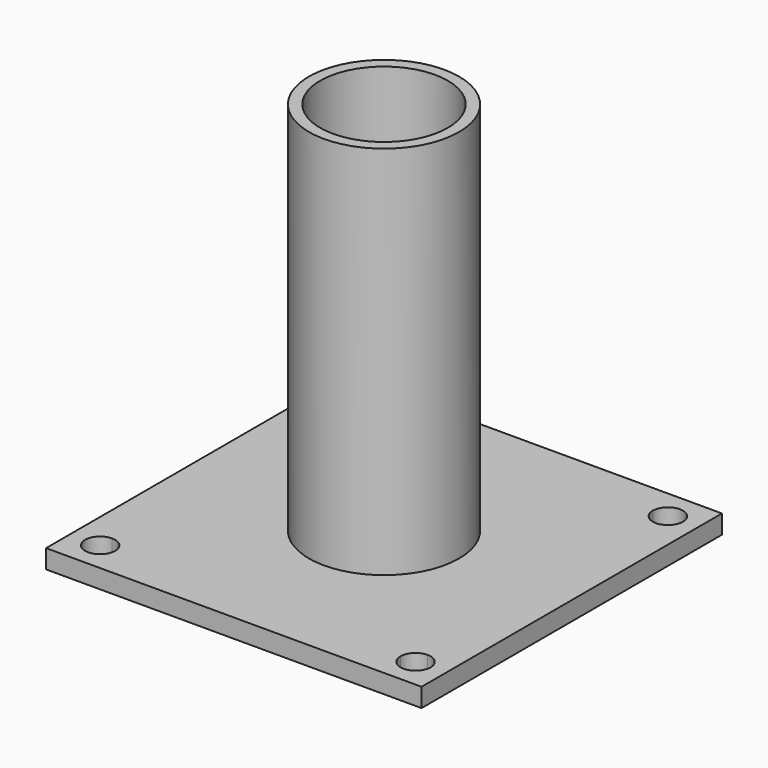
from build123d import *

# Parameters (mm, degrees)
F0_W     = 50
F0_H     = 50
F0_R     = 10
F0_R_2   = 8.5
F1_DEPTH = 2.5
F2_DEPTH = 25
F4_R     = 8.5
F4_R_2   = 2.5
F5_DEPTH = 2
F4_R_3   = 10
F6_DEPTH = 25
F7_R     = 2.5
F8_DEPTH = 25


with BuildPart() as f1:
    # F0 (on Top) → F1 (new body)
    with BuildSketch(Plane.XY):
        Rectangle(F0_W, F0_H)
        with BuildLine():
            ThreePointArc((-21, 19), (-22.414214, 22.414214), (-19, 21))
            Line((-19, 21), (19, 21))
            ThreePointArc((19, 21), (21, 23), (23, 21))
            ThreePointArc((23, 21), (22.414214, 19.585786), (21, 19))
            Line((21, 19), (21, -19))
            ThreePointArc((21, -19), (22.414214, -19.585786), (23, -21))
            ThreePointArc((23, -21), (21, -23), (19, -21))
            Line((19, -21), (-19, -21))
            ThreePointArc((-19, -21), (-22.414214, -22.414214), (-21, -19))
            Line((-21, -19), (-21, 19))
        make_face(mode=Mode.SUBTRACT)
        with BuildLine():
            Line((19, 21), (-19, 21))
            ThreePointArc((-19, 21), (-19.585786, 19.585786), (-21, 19))
            Line((-21, 19), (-21, -19))
            ThreePointArc((-21, -19), (-19.585786, -19.585786), (-19, -21))
            Line((-19, -21), (19, -21))
            ThreePointArc((19, -21), (19.585786, -19.585786), (21, -19))
            Line((21, -19), (21, 19))
            ThreePointArc((21, 19), (19.585786, 19.585786), (19, 21))
        make_face()
        Circle(F0_R, mode=Mode.SUBTRACT)
        Circle(F0_R)
        Circle(F0_R_2, mode=Mode.SUBTRACT)
    extrude(amount=-F1_DEPTH)

    # F0 (on Top) → F2 (join)
    with BuildSketch(Plane.XY):
        Circle(F0_R)
        Circle(F0_R_2, mode=Mode.SUBTRACT)
    extrude(amount=F2_DEPTH)

    # F4 (on offset) → F5 (join)
    with BuildSketch(Plane.XY.offset(25)):
        Circle(F4_R)
        Circle(F4_R_2, mode=Mode.SUBTRACT)
    extrude(amount=F5_DEPTH)

    # F4 (on offset) → F6 (join)
    with BuildSketch(Plane.XY.offset(25)):
        Circle(F4_R_3)
        Circle(F4_R, mode=Mode.SUBTRACT)
    extrude(amount=F6_DEPTH)

    # F7 (on Right) → F8 (cut)
    with BuildSketch(Plane.YZ):
        with Locations((0, 7.303349)):
            Circle(F7_R)
    extrude(amount=-F8_DEPTH, mode=Mode.SUBTRACT)


solid = f1.part
